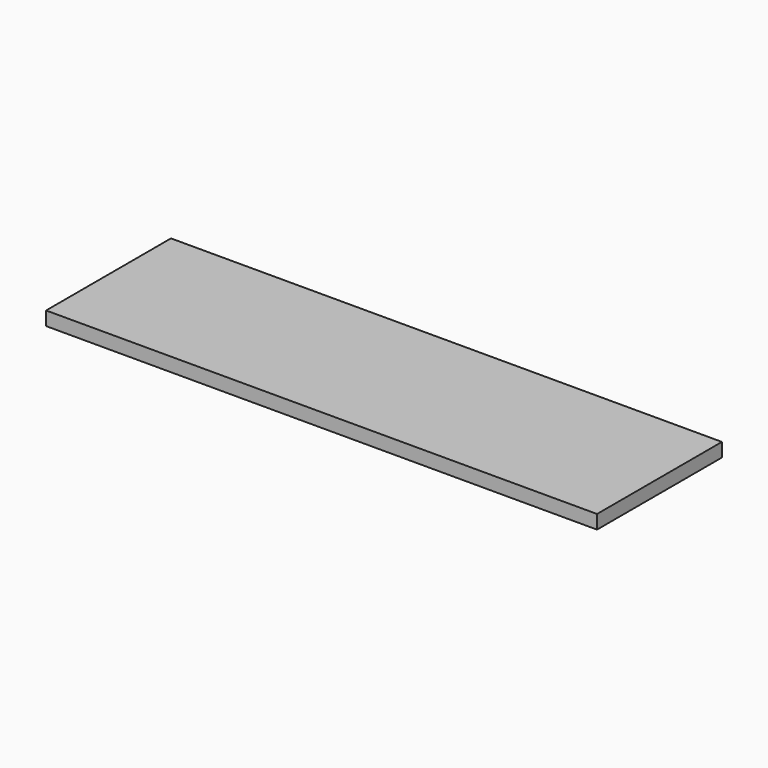
from build123d import *

# Parameters (mm, degrees)
SKETCH_W  = 600
SKETCH_H  = 170
PAD_DEPTH = 15


with BuildPart() as part:
    # Sketch → Pad (new body)
    with BuildSketch(Plane.XY):
        with Locations((300, 85)):
            Rectangle(SKETCH_W, SKETCH_H)
    extrude(amount=PAD_DEPTH)


solid = part.part
